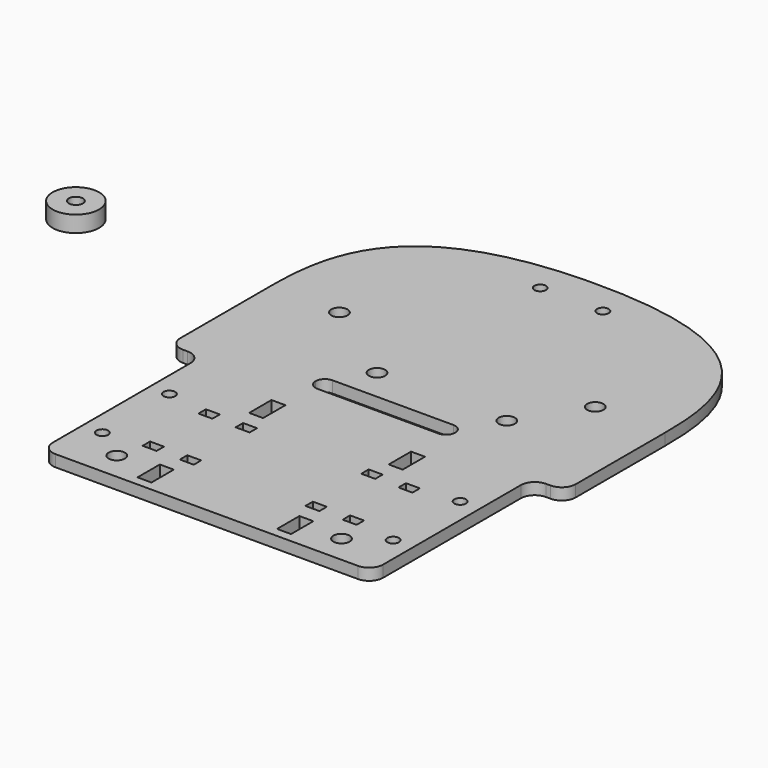
from build123d import *

# Parameters (mm, degrees)
F0_R     = 1.75
F0_R_2   = 1.25
F0_W     = 3
F0_H     = 2
F0_H_2   = 6
F1_DEPTH = 2.5
F2_R     = 5
F2_R_2   = 1.5
F3_DEPTH = 3.5


with BuildPart() as f1:
    # F0 (on Top) → F1 (new body)
    with BuildSketch(Plane.XY):
        with BuildLine():
            Line((4.5, 20), (4.5, 6))
            Line((4.5, 6), (31.5, 6))
            Line((31.5, 6), (31.5, -6))
            Line((31.5, -6), (5.5, -6))
            Line((5.5, -6), (4.5, -6))
            Line((4.5, -6), (4.5, -17))
            ThreePointArc((4.5, -17), (5.3786796564, -19.1213203436), (7.5, -20))
            Line((7.5, -20), (40, -20))
            Line((40, -20), (72.5, -20))
            ThreePointArc((72.5, -20), (74.6213203436, -19.1213203436), (75.5, -17))
            Line((75.5, -17), (75.5, -6))
            Line((75.5, -6), (74.5, -6))
            Line((74.5, -6), (48.5, -6))
            Line((48.5, -6), (48.5, 6))
            Line((48.5, 6), (75.5, 6))
            Line((75.5, 6), (75.5, 20))
            ThreePointArc((75.5, 20), (76.3786796564, 22.1213203436), (78.5, 23))
            Line((78.5, 23), (79.5, 23))
            ThreePointArc((79.5, 23), (81.6213203436, 23.8786796564), (82.5, 26))
            Line((82.5, 26), (82.5, 50))
            add(Edge.make_bspline(
                [(40, 85), (80, 85), (82.5, 65), (82.5, 50)],
                knots=[0, 0, 0, 0, 55.0567888639, 55.0567888639, 55.0567888639, 55.0567888639], degree=3))
            add(Edge.make_bspline(
                [(40, 85), (0, 85), (-2.5, 65), (-2.5, 50)],
                knots=[0, 0, 0, 0, 55.0567888639, 55.0567888639, 55.0567888639, 55.0567888639], degree=3))
            Line((-2.5, 50), (-2.5, 26))
            ThreePointArc((-2.5, 26), (-1.6213203436, 23.8786796564), (0.5, 23))
            Line((0.5, 23), (1.5, 23))
            ThreePointArc((1.5, 23), (3.6213203436, 22.1213203436), (4.5, 20))
        make_face()
        with Locations((15.85, -14)):
            Circle(F0_R, mode=Mode.SUBTRACT)
        with Locations((8.75, -9)):
            Circle(F0_R_2, mode=Mode.SUBTRACT)
        with Locations((18.5, -7.5)):
            Rectangle(F0_W, F0_H, mode=Mode.SUBTRACT)
        with Locations((25, -15)):
            Rectangle(F0_W, F0_H_2, mode=Mode.SUBTRACT)
        with Locations((26.5, -7.5)):
            Rectangle(F0_W, F0_H, mode=Mode.SUBTRACT)
        with Locations((8.75, 9)):
            Circle(F0_R_2, mode=Mode.SUBTRACT)
        with Locations((18.5, 7.5)):
            Rectangle(F0_W, F0_H, mode=Mode.SUBTRACT)
        with Locations((26.5, 7.5)):
            Rectangle(F0_W, F0_H, mode=Mode.SUBTRACT)
        with Locations((25, 15)):
            Rectangle(F0_W, F0_H_2, mode=Mode.SUBTRACT)
        with Locations((55, -15)):
            Rectangle(F0_W, F0_H_2, mode=Mode.SUBTRACT)
        with Locations((53.5, -7.5)):
            Rectangle(F0_W, F0_H, mode=Mode.SUBTRACT)
        with Locations((64.15, -14)):
            Circle(F0_R, mode=Mode.SUBTRACT)
        with Locations((61.5, -7.5)):
            Rectangle(F0_W, F0_H, mode=Mode.SUBTRACT)
        with Locations((71.25, -9)):
            Circle(F0_R_2, mode=Mode.SUBTRACT)
        with Locations((53.5, 7.5)):
            Rectangle(F0_W, F0_H, mode=Mode.SUBTRACT)
        with Locations((55, 15)):
            Rectangle(F0_W, F0_H_2, mode=Mode.SUBTRACT)
        with BuildLine():
            Line((27, 30), (40, 30))
            Line((40, 30), (53, 30))
            ThreePointArc((53, 30), (54.4142135624, 29.4142135624), (55, 28))
            ThreePointArc((55, 28), (54.4142135624, 26.5857864376), (53, 26))
            Line((53, 26), (40, 26))
            Line((40, 26), (27, 26))
            ThreePointArc((27, 26), (25.5857864376, 26.5857864376), (25, 28))
            ThreePointArc((25, 28), (25.5857864376, 29.4142135624), (27, 30))
        make_face(mode=Mode.SUBTRACT)
        with Locations((61.5, 7.5)):
            Rectangle(F0_W, F0_H, mode=Mode.SUBTRACT)
        with Locations((71.25, 9)):
            Circle(F0_R_2, mode=Mode.SUBTRACT)
        with Locations((12.5, 50)):
            Circle(F0_R, mode=Mode.SUBTRACT)
        with Locations((31.15, 36.8)):
            Circle(F0_R, mode=Mode.SUBTRACT)
        with Locations((33.269, 78)):
            Circle(F0_R_2, mode=Mode.SUBTRACT)
        with Locations((59.05, 36.8)):
            Circle(F0_R, mode=Mode.SUBTRACT)
        with Locations((67.5, 50)):
            Circle(F0_R, mode=Mode.SUBTRACT)
        with BuildLine():
            ThreePointArc((12.5, 55), (8.9644660941, 56.4644660941), (7.5, 60))
            Line((7.5, 60), (7.5, 65))
            ThreePointArc((7.5, 65), (8.9644660941, 68.5355339059), (12.5, 70))
            Line((12.5, 70), (40, 70))
            Line((40, 70), (67.5, 70))
            ThreePointArc((67.5, 70), (71.0355339059, 68.5355339059), (72.5, 65))
            Line((72.5, 65), (72.5, 60))
            ThreePointArc((72.5, 60), (71.0355339059, 56.4644660941), (67.5, 55))
            ThreePointArc((67.5, 55), (63.9644660941, 53.5355339059), (62.5, 50))
            ThreePointArc((62.5, 50), (61.9142135624, 48.5857864376), (60.5, 48))
            Line((60.5, 48), (40, 48))
            Line((40, 48), (19.5, 48))
            ThreePointArc((19.5, 48), (18.0857864376, 48.5857864376), (17.5, 50))
            ThreePointArc((17.5, 50), (16.0355339059, 53.5355339059), (12.5, 55))
        make_face(mode=Mode.SUBTRACT)
        with Locations((46.731, 78)):
            Circle(F0_R_2, mode=Mode.SUBTRACT)
        with BuildLine():
            Line((7.5, 65), (7.5, 60))
            ThreePointArc((7.5, 60), (8.9644660941, 56.4644660941), (12.5, 55))
            ThreePointArc((12.5, 55), (16.0355339059, 53.5355339059), (17.5, 50))
            ThreePointArc((17.5, 50), (18.0857864376, 48.5857864376), (19.5, 48))
            Line((19.5, 48), (40, 48))
            Line((40, 48), (60.5, 48))
            ThreePointArc((60.5, 48), (61.9142135624, 48.5857864376), (62.5, 50))
            ThreePointArc((62.5, 50), (63.9644660941, 53.5355339059), (67.5, 55))
            ThreePointArc((67.5, 55), (71.0355339059, 56.4644660941), (72.5, 60))
            Line((72.5, 60), (72.5, 65))
            ThreePointArc((72.5, 65), (71.0355339059, 68.5355339059), (67.5, 70))
            Line((67.5, 70), (40, 70))
            Line((40, 70), (12.5, 70))
            ThreePointArc((12.5, 70), (8.9644660941, 68.5355339059), (7.5, 65))
        make_face()
        Polygon((31.5, 6), (4.5, 6), (4.5, -6), (5.5, -6), (31.5, -6), align=None)
        Polygon((74.5, -6), (75.5, -6), (75.5, 6), (48.5, 6), (48.5, -6), align=None)
    extrude(amount=-F1_DEPTH)


with BuildPart() as f3:
    # F2 (on Top) → F3 (new body)
    with BuildSketch(Plane.XY):
        with Locations((-43.1595407426, 48.7680919468)):
            Circle(F2_R)
        with Locations((-43.1595407426, 48.7680919468)):
            Circle(F2_R_2, mode=Mode.SUBTRACT)
    extrude(amount=F3_DEPTH)


solid = Compound([f1.part, f3.part])
